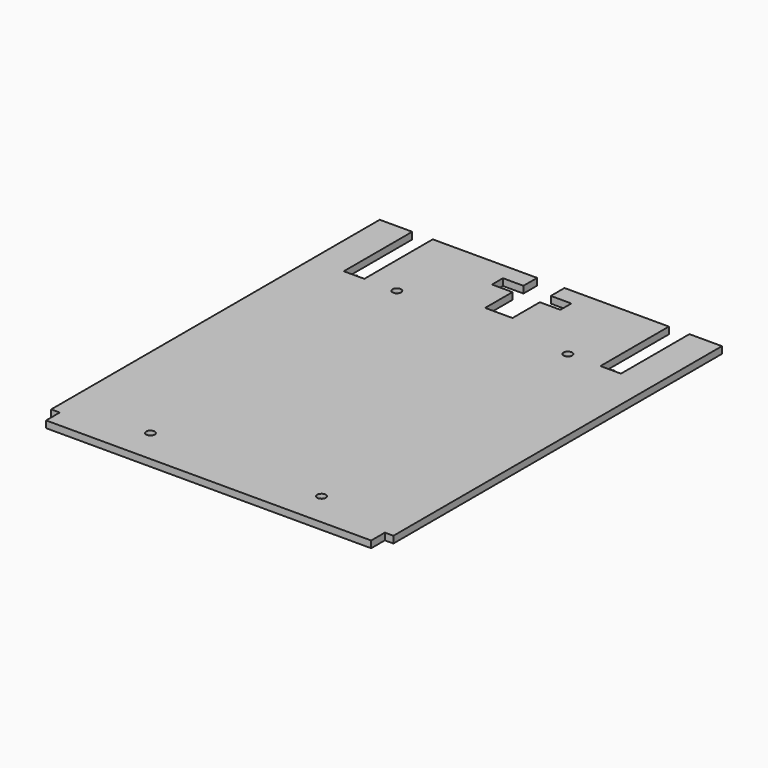
from build123d import *

# Parameters (mm, degrees)
F0_R          = 2.5
F1_DEPTH      = 2
F1_DEPTH_BACK = 2
F2_R          = 1
F3_DEPTH      = 2


with BuildPart() as f1:
    # F0 (on Top) → F1 (new body, two sides)
    with BuildSketch(Plane.XY) as f1_sk:
        Polygon((6, 0), (-6, 0), (-6, 50), (-25, 50), (-25, -190), (-20, -190), (-20, -200), (170, -200), (170, -190), (175, -190), (175, 50), (156, 50), (156, 0), (144, 0), (144, 50), (83, 50), (83, 40), (95, 40), (95, 32), (83, 32), (83, 12), (67, 12), (67, 32), (55, 32), (55, 40), (67, 40), (67, 50), (6, 50), align=None)
        with Locations((25, -180)):
            Circle(F0_R, mode=Mode.SUBTRACT)
        with Locations((125, -180)):
            Circle(F0_R, mode=Mode.SUBTRACT)
        with Locations((25, 0)):
            Circle(F0_R, mode=Mode.SUBTRACT)
        with Locations((125, 0)):
            Circle(F0_R, mode=Mode.SUBTRACT)
    extrude(amount=F1_DEPTH)
    extrude(f1_sk.sketch, amount=-F1_DEPTH_BACK)

    # F2 (on face) → F3 (join)
    with BuildSketch(Plane(origin=(0, 0, 0), x_dir=(-1, 0, 0), z_dir=(0, 1, 0))):
        with Locations((-150, 0)):
            Circle(F2_R)
        Circle(F2_R)
    extrude(amount=F3_DEPTH)


solid = f1.part
